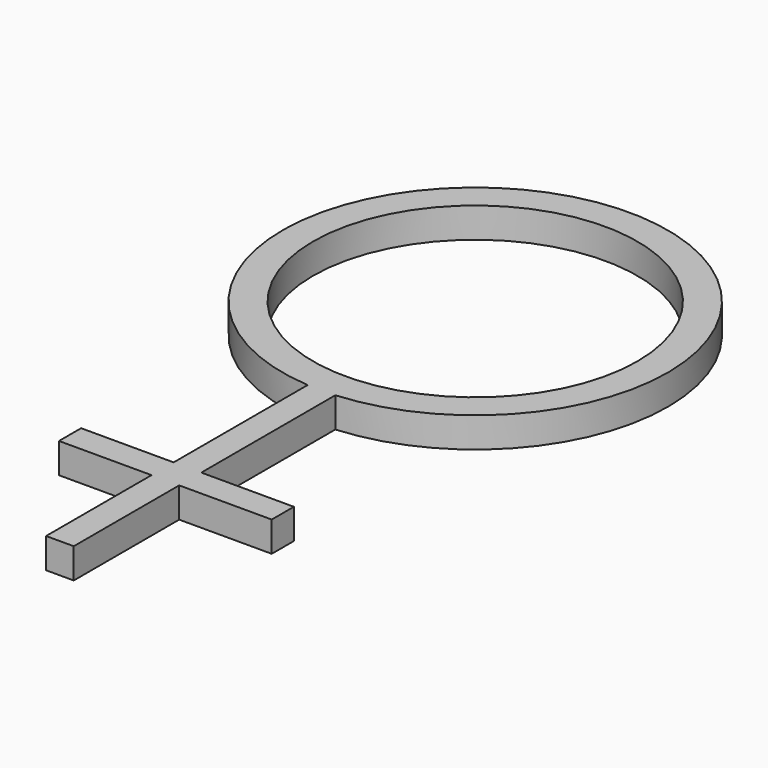
from build123d import *

# Parameters (mm, degrees)
F0_R     = 6.45
F1_DEPTH = 1.2


with BuildPart() as f1:
    # F0 (on Top) → F1 (new body)
    with BuildSketch(Plane.XY):
        with BuildLine():
            Line((0.55, -14.300229), (0.55, -7.640229))
            ThreePointArc((0.55, -7.640229), (0, 7.66), (-0.55, -7.640229))
            Line((-0.55, -7.640229), (-0.55, -14.300229))
            Line((-0.55, -14.300229), (-4.229019, -14.300229))
            Line((-4.229019, -14.300229), (-4.229019, -15.400229))
            Line((-4.229019, -15.400229), (-0.55, -15.400229))
            Line((-0.55, -15.400229), (-0.55, -20.640229))
            Line((-0.55, -20.640229), (0.55, -20.640229))
            Line((0.55, -20.640229), (0.55, -15.400229))
            Line((0.55, -15.400229), (4.229019, -15.400229))
            Line((4.229019, -15.400229), (4.229019, -14.300229))
            Line((4.229019, -14.300229), (0.55, -14.300229))
        make_face()
        Circle(F0_R, mode=Mode.SUBTRACT)
    extrude(amount=F1_DEPTH)


solid = f1.part
